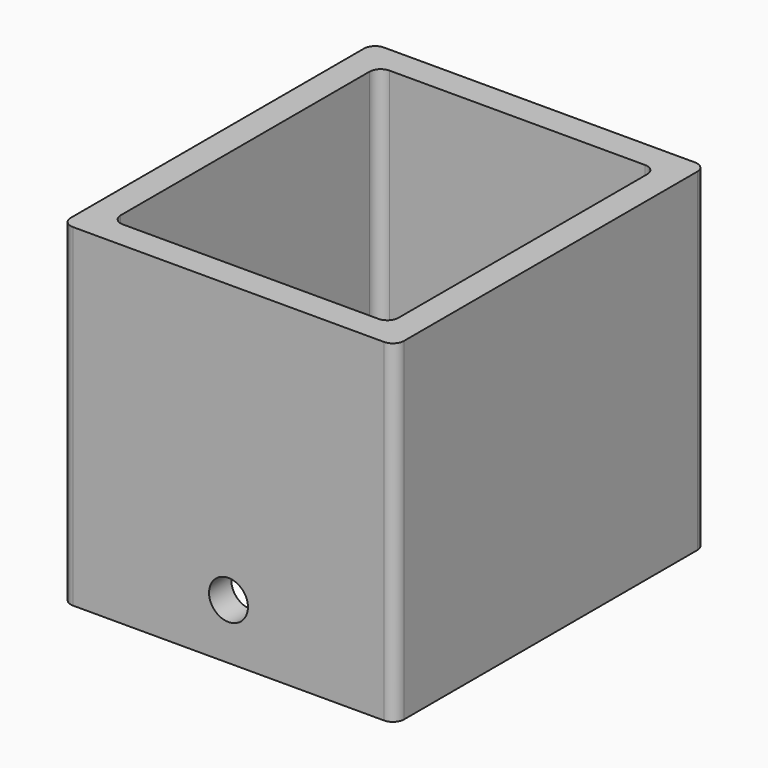
from build123d import *

# Parameters (mm, degrees)
F0_W     = 60
F0_H     = 70
F0_W_2   = 50
F0_H_2   = 60
F1_DEPTH = 60
F2_R     = 2
F3_R     = 3.5
F4_DEPTH = 35


with BuildPart() as f1:
    # F0 (on Top) → F1 (new body)
    with BuildSketch(Plane.XY):
        Rectangle(F0_W, F0_H)
        Rectangle(F0_W_2, F0_H_2, mode=Mode.SUBTRACT)
    extrude(amount=F1_DEPTH)

    # F2
    f2_edges = [f1.edges().sort_by_distance(p)[0] for p in [
        (-30, -35, 30),
        (30, -35, 30),
        (-30, 35, 30),
        (30, 35, 30),
        (25, -30, 30),
        (-25, 30, 30),
        (25, 30, 30),
        (-25, -30, 30),
    ]]
    fillet(f2_edges, radius=F2_R)

    # F3 (on Front) → F4 (cut, symmetric)
    with BuildSketch(Plane.XZ):
        with Locations((0, 10)):
            Circle(F3_R)
    extrude(amount=F4_DEPTH, both=True, mode=Mode.SUBTRACT)


solid = f1.part
